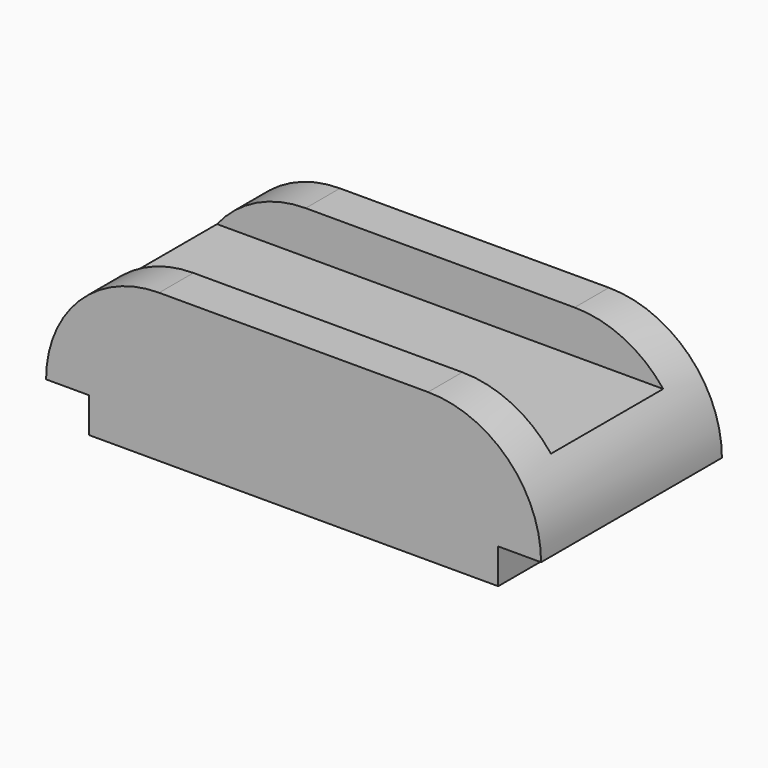
from build123d import *

# Parameters (mm, degrees)
F1_DEPTH = 29
F2_W     = 36
F2_H     = 11
F3_DEPTH = 63.5


with BuildPart() as f1:
    # F0 (on Front) → F1 (new body, symmetric)
    with BuildSketch(Plane.XZ):
        with BuildLine():
            Line((-52.5, 9), (-52.5, 0))
            Line((-52.5, 0), (52.5, 0))
            Line((52.5, 0), (52.5, 9))
            Line((52.5, 9), (63.5, 9))
            ThreePointArc((63.5, 9), (55.006097, 29.506097), (34.5, 38))
            Line((34.5, 38), (-34.5, 38))
            ThreePointArc((-34.5, 38), (-55.006097, 29.506097), (-63.5, 9))
            Line((-63.5, 9), (-52.5, 9))
        make_face()
    extrude(amount=F1_DEPTH, both=True)

    # F2 (on Right) → F3 (cut, symmetric)
    with BuildSketch(Plane.YZ):
        with Locations((0, 32.5)):
            Rectangle(F2_W, F2_H)
    extrude(amount=F3_DEPTH, both=True, mode=Mode.SUBTRACT)


solid = f1.part
